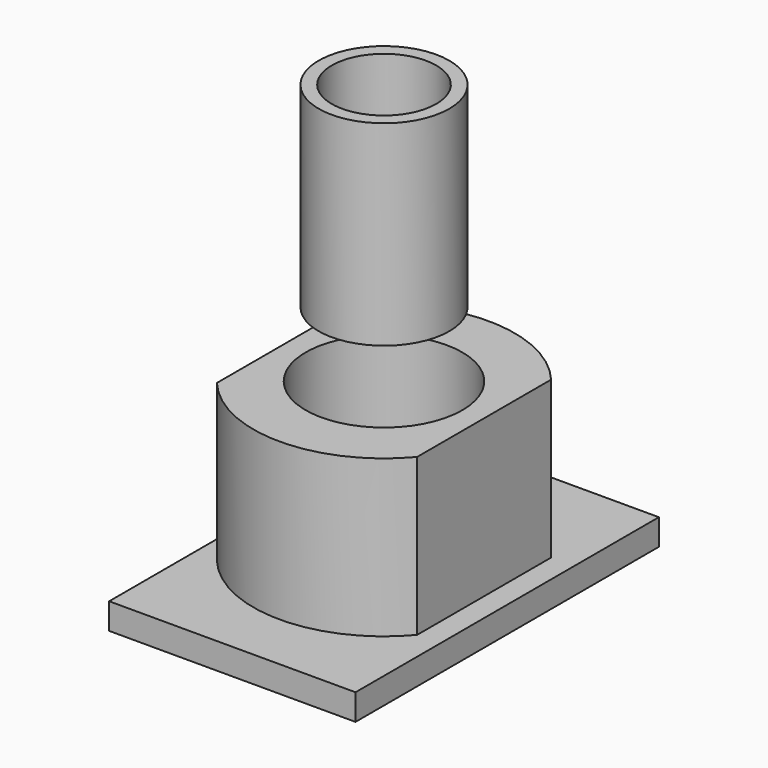
from build123d import *

# Parameters (mm, degrees)
F0_R     = 6
F1_DEPTH = 12
F0_W     = 18.870444
F0_H     = 29.041972
F2_DEPTH = 2
F3_R     = 5
F3_R_2   = 4
F4_DEPTH = 15


with BuildPart() as f1:
    # F0 (on Top) → F1 (new body)
    with BuildSketch(Plane.XY):
        with BuildLine():
            Line((-7.670834, 6.415474), (-7.670834, -6.415474))
            ThreePointArc((-7.670834, -6.415474), (0, -10), (7.670834, -6.415474))
            Line((7.670834, -6.415474), (7.670834, 6.415474))
            ThreePointArc((7.670834, 6.415474), (0, 10), (-7.670834, 6.415474))
        make_face()
        Circle(F0_R, mode=Mode.SUBTRACT)
    extrude(amount=F1_DEPTH)

    # F0 (on Top) → F2 (join)
    with BuildSketch(Plane.XY):
        Rectangle(F0_W, F0_H)
        with BuildLine():
            ThreePointArc((7.670834, -6.415474), (0, -10), (-7.670834, -6.415474))
            Line((-7.670834, -6.415474), (-7.670834, 6.415474))
            ThreePointArc((-7.670834, 6.415474), (0, 10), (7.670834, 6.415474))
            Line((7.670834, 6.415474), (7.670834, -6.415474))
        make_face(mode=Mode.SUBTRACT)
    extrude(amount=-F2_DEPTH)


with BuildPart() as f4:
    # F3 (on face) → F4 (new body)
    with BuildSketch(Plane.XY.offset(12)):
        Circle(F3_R)
        Circle(F3_R_2, mode=Mode.SUBTRACT)
    extrude(amount=F4_DEPTH)


with BuildPart() as f4_1:
    # F5: moved
    add(f4.part.moved(Location((0, 0, 5))))


solid = Compound([f1.part, f4_1.part])
